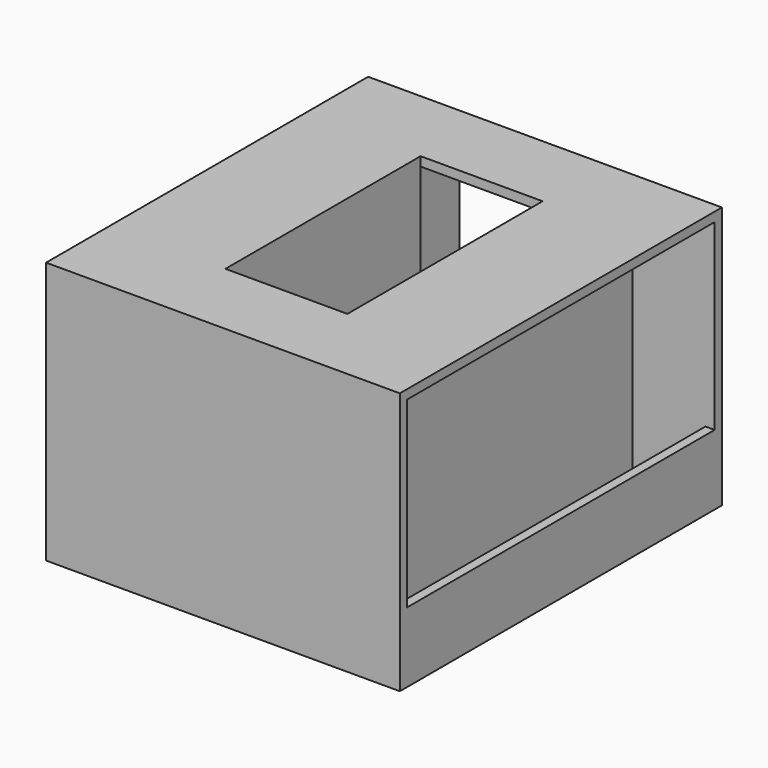
from build123d import *

# Parameters (mm, degrees)
F0_W      = 736.6
F0_H      = 838.2
F0_W_2    = 254
F0_H_2    = 508
F1_DEPTH  = 546.1
F2_W      = 800.1
F2_H      = 508
F3_DEPTH  = 171.45
F4_W      = 800.1
F4_H      = 508
F5_DEPTH  = 171.45
F6_W      = 19.05
F6_H      = 800.1
F7_DEPTH  = 127
F8_W      = 19.05
F8_H      = 800.1
F9_DEPTH  = 127
F10_W     = 355.6
F10_H     = 508
F11_DEPTH = 165.1
F12_W     = 355.6
F12_H     = 19.05
F13_DEPTH = 127


with BuildPart() as f1:
    # F0 (on Top) → F1 (new body)
    with BuildSketch(Plane.XY):
        with Locations((286.437001, 272.556877)):
            Rectangle(F0_W, F0_H)
        with Locations((286.437001, 272.556877)):
            Rectangle(F0_W_2, F0_H_2, mode=Mode.SUBTRACT)
    extrude(amount=F1_DEPTH)

    # F2 (on face) → F3 (cut)
    with BuildSketch(Plane.YZ.offset(654.737001)):
        with Locations((272.556877, 273.05)):
            Rectangle(F2_W, F2_H)
    extrude(amount=-F3_DEPTH, mode=Mode.SUBTRACT)

    # F4 (on face) → F5 (cut)
    with BuildSketch(Plane(origin=(-81.862999, 0, 0), x_dir=(0, -1, 0), z_dir=(-1, 0, 0))):
        with Locations((-272.556877, 273.05)):
            Rectangle(F4_W, F4_H)
    extrude(amount=-F5_DEPTH, mode=Mode.SUBTRACT)

    # F6 (on face) → F7 (join)
    with BuildSketch(Plane.XY.offset(19.05)):
        with Locations((645.212001, 272.556877)):
            Rectangle(F6_W, F6_H)
    extrude(amount=F7_DEPTH)

    # F8 (on face) → F9 (join)
    with BuildSketch(Plane.XY.offset(19.05)):
        with Locations((-72.337999, 272.556877)):
            Rectangle(F8_W, F8_H)
    extrude(amount=F9_DEPTH)

    # F10 (on face) → F11 (cut)
    with BuildSketch(Plane(origin=(0, 691.656877, 0), x_dir=(-1, 0, 0), z_dir=(0, 1, 0))):
        with Locations((-286.437001, 273.05)):
            Rectangle(F10_W, F10_H)
    extrude(amount=-F11_DEPTH, mode=Mode.SUBTRACT)

    # F12 (on face) → F13 (join)
    with BuildSketch(Plane.XY.offset(19.05)):
        with Locations((286.437001, 682.131877)):
            Rectangle(F12_W, F12_H)
    extrude(amount=F13_DEPTH)


solid = f1.part
